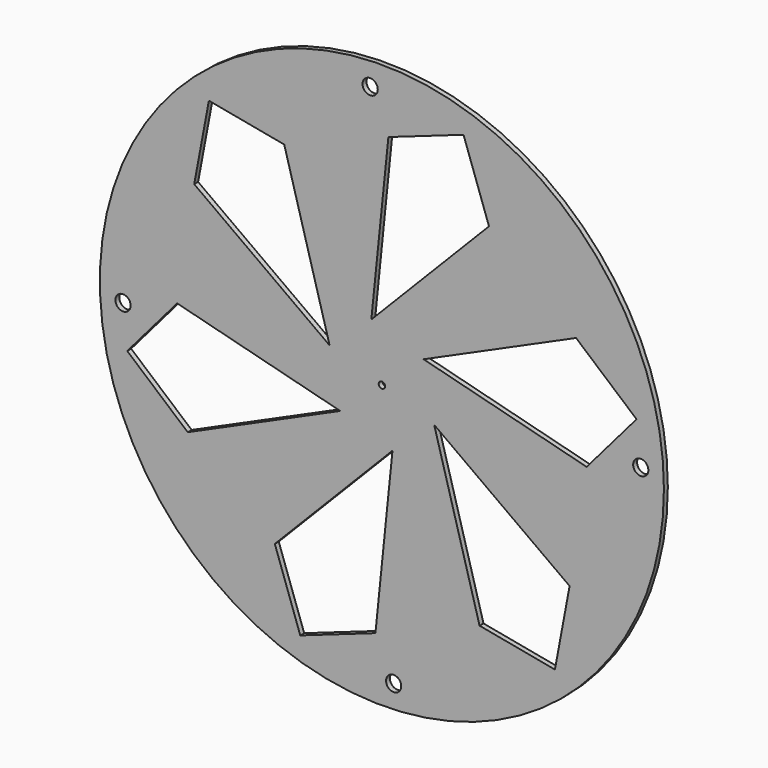
from build123d import *

# Parameters (mm, degrees)
F0_R     = 146.05
F0_R_2   = 3.937
F1_DEPTH = 2.54


with BuildPart() as f1:
    # F0 (on Front) → F1 (new body)
    with BuildSketch(Plane.XZ):
        Circle(F0_R)
        Polygon((-55.44806, -90.416125), (5.48331, -28.107605), (-3.354613, -114.176181), (-42.274009, -127.866862), align=None, mode=Mode.SUBTRACT)
        with Locations((-134.053722, -6.079614)):
            Circle(F0_R_2, mode=Mode.SUBTRACT)
        Polygon((-106.026691, 2.811366), (-21.600245, -18.802488), (-100.55678, -54.18291), (-131.872956, -27.323065), align=None, mode=Mode.SUBTRACT)
        with Locations((6.079614, -134.053722)):
            Circle(F0_R_2, mode=Mode.SUBTRACT)
        Polygon((50.578631, -93.227491), (27.083555, -9.305117), (97.202167, -59.993271), (89.598946, -100.543797), align=None, mode=Mode.SUBTRACT)
        Polygon((-50.578631, 93.227491), (-27.083555, 9.305117), (-97.202167, 59.993271), (-89.598946, 100.543797), align=None, mode=Mode.SUBTRACT)
        with Locations((-6.079614, 134.053722)):
            Circle(F0_R_2, mode=Mode.SUBTRACT)
        with BuildLine():
            ThreePointArc((-1.651, 0), (0, 1.651), (1.651, 0))
            ThreePointArc((1.651, 0), (0, -1.651), (-1.651, 0))
        make_face(mode=Mode.SUBTRACT)
        Polygon((106.026691, -2.811366), (21.600245, 18.802488), (100.55678, 54.18291), (131.872956, 27.323065), align=None, mode=Mode.SUBTRACT)
        with Locations((134.053722, 6.079614)):
            Circle(F0_R_2, mode=Mode.SUBTRACT)
        Polygon((55.44806, 90.416125), (-5.48331, 28.107605), (3.354613, 114.176181), (42.274009, 127.866862), align=None, mode=Mode.SUBTRACT)
    extrude(amount=F1_DEPTH)


solid = f1.part
